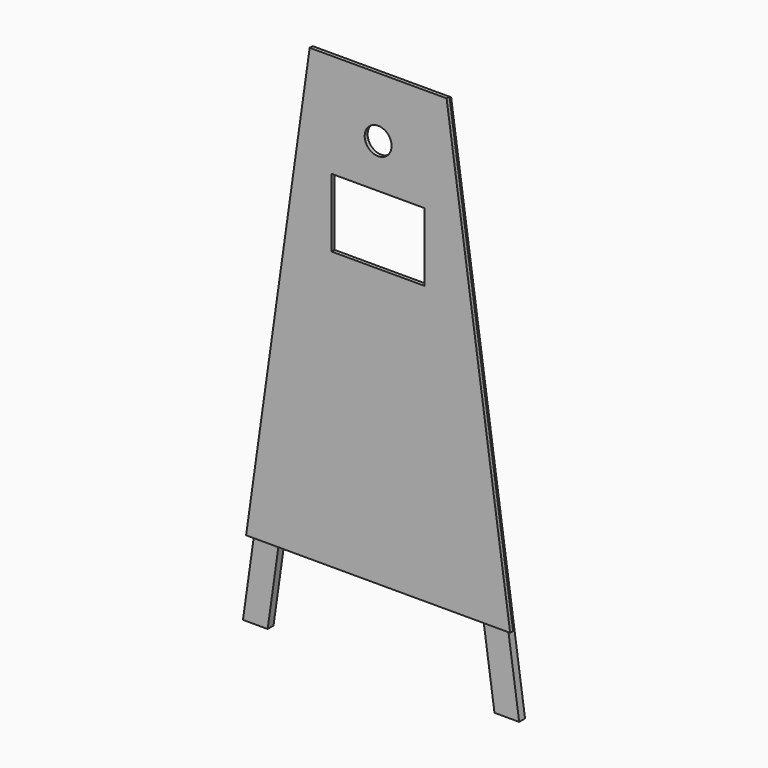
from build123d import *

# Parameters (mm, degrees)
F0_W     = 241.3
F0_H     = 177.8
F0_R     = 34.925
F1_DEPTH = 9.525
F3_DEPTH = 19.05


with BuildPart() as f1:
    # F0 (on Front) → F1 (new body)
    with BuildSketch(Plane.XZ):
        Polygon((-177.8, 1168.4), (-342.9, 0), (342.9, 0), (177.8, 1168.4), align=None)
        with Locations((0, 809.869231)):
            Rectangle(F0_W, F0_H, mode=Mode.SUBTRACT)
        with Locations((0, 1013.069231)):
            Circle(F0_R, mode=Mode.SUBTRACT)
    extrude(amount=F1_DEPTH)

    # F2 (on face) → F3 (join)
    with BuildSketch(Plane(origin=(0, 0, 0), x_dir=(-1, 0, 0), z_dir=(0, 1, 0))):
        Polygon((-166.768402, 1155.7), (-358.675023, -202.408394), (-294.544206, -202.408394), (-265.94302, 0), (265.94302, 0), (294.544206, -202.408394), (358.675023, -202.408394), (166.768402, 1155.7), (111.610412, 1092.2), (256.970194, 63.5), (-256.970194, 63.5), (-111.610412, 1092.2), align=None)
        Polygon((166.768402, 1155.7), (-166.768402, 1155.7), (-111.610412, 1092.2), (111.610412, 1092.2), align=None)
    extrude(amount=F3_DEPTH)


solid = f1.part
